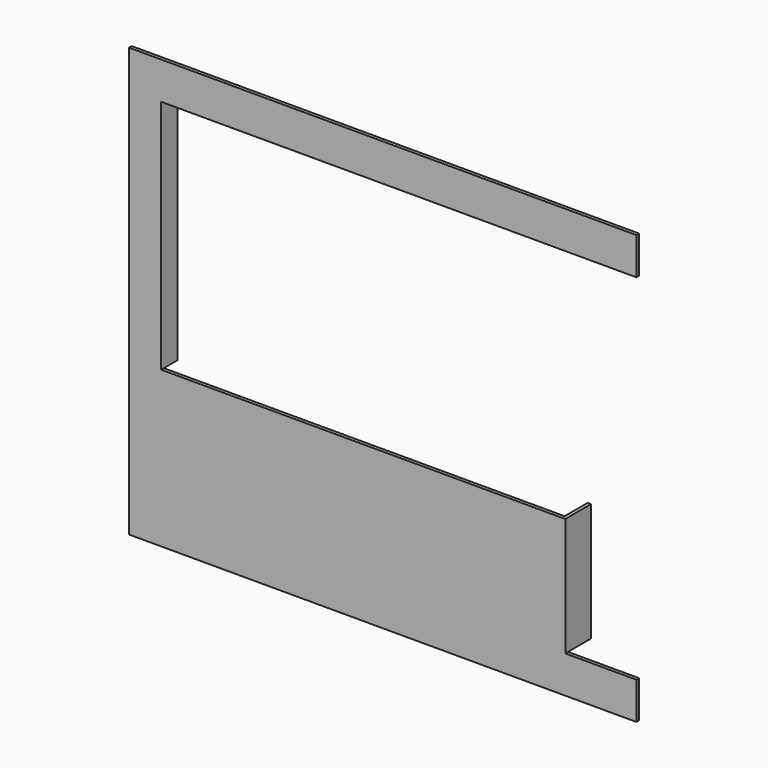
from build123d import *

# Parameters (mm, degrees)
F1_DEPTH = 20
F2_W     = 190
F2_H     = 700
F3_DEPTH = 20
F4_W     = 120
F4_H     = 1395
F5_DEPTH = 20


with BuildPart() as f1:
    # F0 (on Front) → F1 (new body)
    with BuildSketch(Plane.XZ):
        Polygon((0, 920), (0, 0), (2560, 0), (3000, 0), (3000, 220), (2560, 220), (2560, 920), (170, 920), (170, 2315), (3000, 2315), (3000, 2535), (0, 2535), (0, 2320), align=None)
    extrude(amount=F1_DEPTH)

    # F2 (on face) → F3 (join)
    with BuildSketch(Plane.YZ.offset(2560)):
        with Locations((75, 570)):
            Rectangle(F2_W, F2_H)
    extrude(amount=F3_DEPTH)

    # F4 (on face) → F5 (join)
    with BuildSketch(Plane.YZ.offset(170)):
        with Locations((40, 1617.5)):
            Rectangle(F4_W, F4_H)
    extrude(amount=F5_DEPTH)


solid = f1.part
